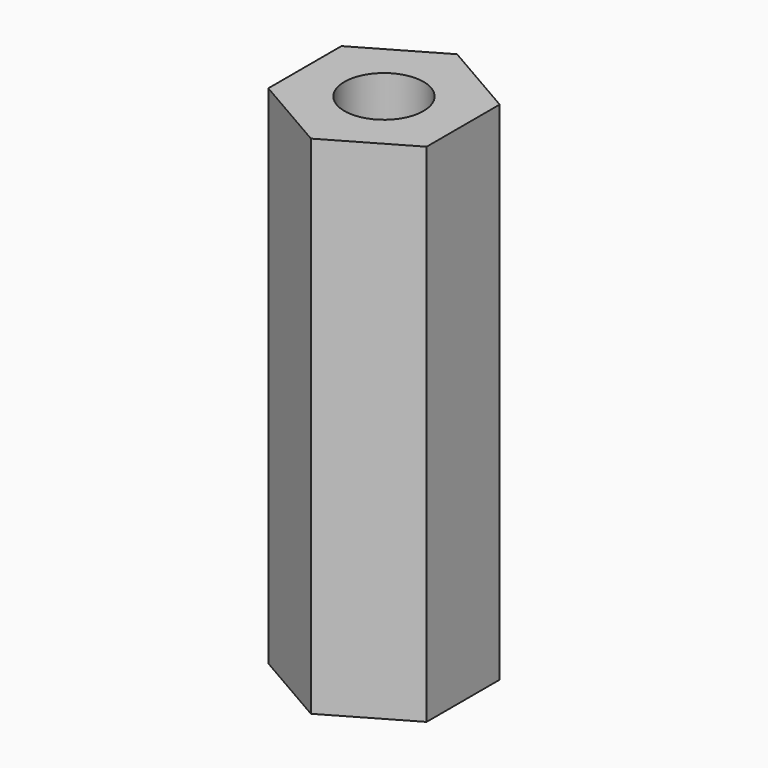
from build123d import *

# Parameters (mm, degrees)
F0_R     = 1.25
F1_DEPTH = 5
F2_DEPTH = 16


with BuildPart() as f1:
    # F0 (on Top) → F1 (new body)
    with BuildSketch(Plane.XY):
        Polygon((-2.5, 1.443376), (-2.5, -1.443376), (0, -2.886751), (2.5, -1.443376), (2.5, 1.443376), (0, 2.886751), align=None)
        Circle(F0_R, mode=Mode.SUBTRACT)
    extrude(amount=F1_DEPTH)


with BuildPart() as f2:
    # F0 (on Top) → F2 (new body)
    with BuildSketch(Plane.XY):
        Polygon((-2.5, 1.443376), (-2.5, -1.443376), (0, -2.886751), (2.5, -1.443376), (2.5, 1.443376), (0, 2.886751), align=None)
        Circle(F0_R, mode=Mode.SUBTRACT)
    extrude(amount=F2_DEPTH)


solid = Compound([f1.part, f2.part])
